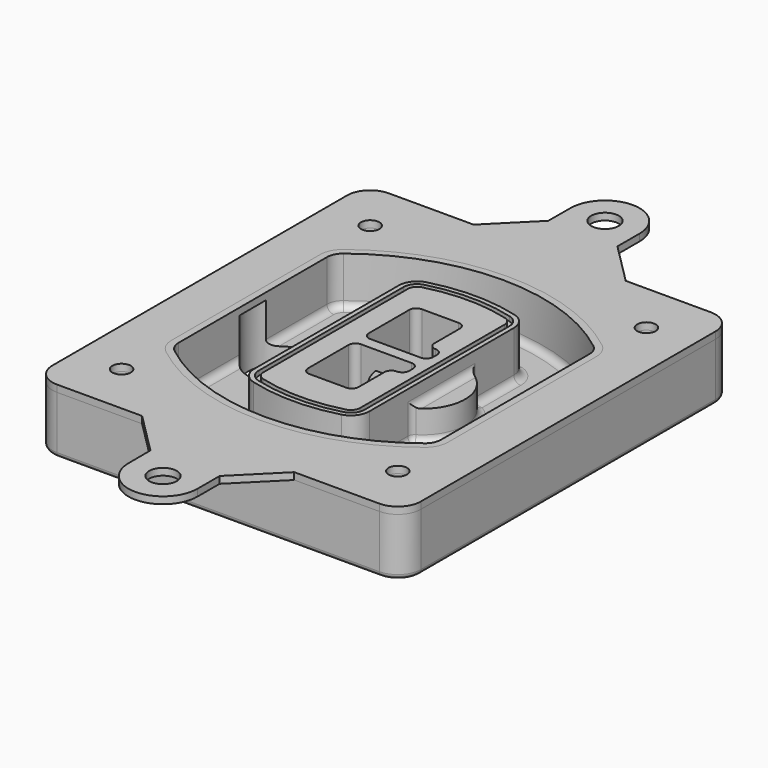
from build123d import *

# Parameters (mm, degrees)
F0_R      = 4
F1_DEPTH  = 25
F2_DEPTH  = 3
F3_DEPTH  = 18
F5_DEPTH  = 21
F6_DEPTH  = 2
F8_DEPTH  = 20
F9_DEPTH  = 16
F10_DEPTH = 25
F7_R      = 6
F7_R_2    = 4
F11_DEPTH = 6
F13_DEPTH = 9
F14_R     = 3
F15_R     = 2
F16_R     = 6
F16_R_2   = 4
F17_DEPTH = 3


with BuildPart() as f1:
    # F0 (on Top) → F1 (new body)
    with BuildSketch(Plane.XY):
        with BuildLine():
            ThreePointArc((-80, -80), (-77.0710678119, -87.0710678119), (-70, -90))
            Line((-70, -90), (70, -90))
            ThreePointArc((70, -90), (77.0710678119, -87.0710678119), (80, -80))
            Line((80, -80), (80, 80))
            ThreePointArc((80, 80), (77.0710678119, 87.0710678119), (70, 90))
            Line((70, 90), (-70, 90))
            ThreePointArc((-70, 90), (-77.0710678119, 87.0710678119), (-80, 80))
            Line((-80, 80), (-80, -80))
        make_face()
        with Locations((-60, -67.5)):
            Circle(F0_R, mode=Mode.SUBTRACT)
        with Locations((60, -67.5)):
            Circle(F0_R, mode=Mode.SUBTRACT)
        with Locations((-60, 67.5)):
            Circle(F0_R, mode=Mode.SUBTRACT)
        with BuildLine():
            ThreePointArc((-64, 40.2934422872), (-62.5820384798, 46.4328484224), (-58.6153846154, 51.3286200352))
            ThreePointArc((-58.6153846154, 51.3286200352), (0, 71.5), (58.6153846154, 51.3286200352))
            ThreePointArc((58.6153846154, 51.3286200352), (62.5820384798, 46.4328484224), (64, 40.2934422872))
            Line((64, 40.2934422872), (64, -40.2934422872))
            ThreePointArc((64, -40.2934422872), (62.5820384798, -46.4328484224), (58.6153846154, -51.3286200352))
            ThreePointArc((58.6153846154, -51.3286200352), (0, -71.5), (-58.6153846154, -51.3286200352))
            ThreePointArc((-58.6153846154, -51.3286200352), (-62.5820384798, -46.4328484224), (-64, -40.2934422872))
            Line((-64, -40.2934422872), (-64, 40.2934422872))
        make_face(mode=Mode.SUBTRACT)
        with Locations((60, 67.5)):
            Circle(F0_R, mode=Mode.SUBTRACT)
        with BuildLine():
            ThreePointArc((58.6153846154, 51.3286200352), (0, 71.5), (-58.6153846154, 51.3286200352))
            ThreePointArc((-58.6153846154, 51.3286200352), (-62.5820384798, 46.4328484224), (-64, 40.2934422872))
            Line((-64, 40.2934422872), (-64, -40.2934422872))
            ThreePointArc((-64, -40.2934422872), (-62.5820384798, -46.4328484224), (-58.6153846154, -51.3286200352))
            ThreePointArc((-58.6153846154, -51.3286200352), (0, -71.5), (58.6153846154, -51.3286200352))
            ThreePointArc((58.6153846154, -51.3286200352), (62.5820384798, -46.4328484224), (64, -40.2934422872))
            Line((64, -40.2934422872), (64, 40.2934422872))
            ThreePointArc((64, 40.2934422872), (62.5820384798, 46.4328484224), (58.6153846154, 51.3286200352))
        make_face()
        with BuildLine():
            Line((-60, -40.2934422872), (-60, 40.2934422872))
            ThreePointArc((-60, 40.2934422872), (-58.9871703427, 44.6787323838), (-56.1538461538, 48.1757121072))
            ThreePointArc((-56.1538461538, 48.1757121072), (0, 67.5), (56.1538461538, 48.1757121072))
            ThreePointArc((56.1538461538, 48.1757121072), (58.9871703427, 44.6787323838), (60, 40.2934422872))
            Line((60, 40.2934422872), (60, -40.2934422872))
            ThreePointArc((60, -40.2934422872), (58.9871703427, -44.6787323838), (56.1538461538, -48.1757121072))
            ThreePointArc((56.1538461538, -48.1757121072), (0, -67.5), (-56.1538461538, -48.1757121072))
            ThreePointArc((-56.1538461538, -48.1757121072), (-58.9871703427, -44.6787323838), (-60, -40.2934422872))
        make_face(mode=Mode.SUBTRACT)
        with BuildLine():
            ThreePointArc((-56.1538461538, 48.1757121072), (-58.9871703427, 44.6787323838), (-60, 40.2934422872))
            Line((-60, 40.2934422872), (-60, -40.2934422872))
            ThreePointArc((-60, -40.2934422872), (-58.9871703427, -44.6787323838), (-56.1538461538, -48.1757121072))
            ThreePointArc((-56.1538461538, -48.1757121072), (0, -67.5), (56.1538461538, -48.1757121072))
            ThreePointArc((56.1538461538, -48.1757121072), (58.9871703427, -44.6787323838), (60, -40.2934422872))
            Line((60, -40.2934422872), (60, 40.2934422872))
            ThreePointArc((60, 40.2934422872), (58.9871703427, 44.6787323838), (56.1538461538, 48.1757121072))
            ThreePointArc((56.1538461538, 48.1757121072), (0, 67.5), (-56.1538461538, 48.1757121072))
        make_face()
        with BuildLine():
            ThreePointArc((54.3076923077, 45.8110311612), (56.2910192399, 43.3631453548), (57, 40.2934422872))
            Line((57, 40.2934422872), (57, -40.2934422872))
            ThreePointArc((57, -40.2934422872), (56.2910192399, -43.3631453548), (54.3076923077, -45.8110311612))
            ThreePointArc((54.3076923077, -45.8110311612), (0, -64.5), (-54.3076923077, -45.8110311612))
            ThreePointArc((-54.3076923077, -45.8110311612), (-56.2910192399, -43.3631453548), (-57, -40.2934422872))
            Line((-57, -40.2934422872), (-57, 40.2934422872))
            ThreePointArc((-57, 40.2934422872), (-56.2910192399, 43.3631453548), (-54.3076923077, 45.8110311612))
            ThreePointArc((-54.3076923077, 45.8110311612), (0, 64.5), (54.3076923077, 45.8110311612))
        make_face(mode=Mode.SUBTRACT)
        with BuildLine():
            Line((57, -40.2934422872), (57, 40.2934422872))
            ThreePointArc((57, 40.2934422872), (56.2910192399, 43.3631453548), (54.3076923077, 45.8110311612))
            ThreePointArc((54.3076923077, 45.8110311612), (0, 64.5), (-54.3076923077, 45.8110311612))
            ThreePointArc((-54.3076923077, 45.8110311612), (-56.2910192399, 43.3631453548), (-57, 40.2934422872))
            Line((-57, 40.2934422872), (-57, -40.2934422872))
            ThreePointArc((-57, -40.2934422872), (-56.2910192399, -43.3631453548), (-54.3076923077, -45.8110311612))
            ThreePointArc((-54.3076923077, -45.8110311612), (0, -64.5), (54.3076923077, -45.8110311612))
            ThreePointArc((54.3076923077, -45.8110311612), (56.2910192399, -43.3631453548), (57, -40.2934422872))
        make_face()
    extrude(amount=-F1_DEPTH)

    # F0 (on Top) → F2 (join)
    with BuildSketch(Plane.XY):
        with BuildLine():
            ThreePointArc((-56.1538461538, 48.1757121072), (-58.9871703427, 44.6787323838), (-60, 40.2934422872))
            Line((-60, 40.2934422872), (-60, -40.2934422872))
            ThreePointArc((-60, -40.2934422872), (-58.9871703427, -44.6787323838), (-56.1538461538, -48.1757121072))
            ThreePointArc((-56.1538461538, -48.1757121072), (0, -67.5), (56.1538461538, -48.1757121072))
            ThreePointArc((56.1538461538, -48.1757121072), (58.9871703427, -44.6787323838), (60, -40.2934422872))
            Line((60, -40.2934422872), (60, 40.2934422872))
            ThreePointArc((60, 40.2934422872), (58.9871703427, 44.6787323838), (56.1538461538, 48.1757121072))
            ThreePointArc((56.1538461538, 48.1757121072), (0, 67.5), (-56.1538461538, 48.1757121072))
        make_face()
        with BuildLine():
            ThreePointArc((54.3076923077, 45.8110311612), (56.2910192399, 43.3631453548), (57, 40.2934422872))
            Line((57, 40.2934422872), (57, -40.2934422872))
            ThreePointArc((57, -40.2934422872), (56.2910192399, -43.3631453548), (54.3076923077, -45.8110311612))
            ThreePointArc((54.3076923077, -45.8110311612), (0, -64.5), (-54.3076923077, -45.8110311612))
            ThreePointArc((-54.3076923077, -45.8110311612), (-56.2910192399, -43.3631453548), (-57, -40.2934422872))
            Line((-57, -40.2934422872), (-57, 40.2934422872))
            ThreePointArc((-57, 40.2934422872), (-56.2910192399, 43.3631453548), (-54.3076923077, 45.8110311612))
            ThreePointArc((-54.3076923077, 45.8110311612), (0, 64.5), (54.3076923077, 45.8110311612))
        make_face(mode=Mode.SUBTRACT)
    extrude(amount=F2_DEPTH)

    # F0 (on Top) → F3 (cut)
    with BuildSketch(Plane.XY):
        with BuildLine():
            Line((57, -40.2934422872), (57, 40.2934422872))
            ThreePointArc((57, 40.2934422872), (56.2910192399, 43.3631453548), (54.3076923077, 45.8110311612))
            ThreePointArc((54.3076923077, 45.8110311612), (0, 64.5), (-54.3076923077, 45.8110311612))
            ThreePointArc((-54.3076923077, 45.8110311612), (-56.2910192399, 43.3631453548), (-57, 40.2934422872))
            Line((-57, 40.2934422872), (-57, -40.2934422872))
            ThreePointArc((-57, -40.2934422872), (-56.2910192399, -43.3631453548), (-54.3076923077, -45.8110311612))
            ThreePointArc((-54.3076923077, -45.8110311612), (0, -64.5), (54.3076923077, -45.8110311612))
            ThreePointArc((54.3076923077, -45.8110311612), (56.2910192399, -43.3631453548), (57, -40.2934422872))
        make_face()
    extrude(amount=-F3_DEPTH, mode=Mode.SUBTRACT)

    # F4 (on face) → F5 (join, through all)
    with BuildSketch(Plane.XY.offset(3)):
        with BuildLine():
            ThreePointArc((-25, -39.2465276821), (-23.3511545998, -44.1109737193), (-19.0842911877, -46.9702398883))
            ThreePointArc((-19.0842911877, -46.9702398883), (0, -49.5), (19.0842911877, -46.9702398883))
            ThreePointArc((19.0842911877, -46.9702398883), (23.3511545998, -44.1109737193), (25, -39.2465276821))
            Line((25, -39.2465276821), (25, 39.2465276821))
            ThreePointArc((25, 39.2465276821), (23.3511545998, 44.1109737193), (19.0842911877, 46.9702398883))
            ThreePointArc((19.0842911877, 46.9702398883), (0, 49.5), (-19.0842911877, 46.9702398883))
            ThreePointArc((-19.0842911877, 46.9702398883), (-23.3511545998, 44.1109737193), (-25, 39.2465276821))
            Line((-25, 39.2465276821), (-25, -39.2465276821))
        make_face()
        with BuildLine():
            ThreePointArc((18.5632183908, 45.0393118368), (21.7633659499, 42.89486221), (23, 39.2465276821))
            Line((23, 39.2465276821), (23, -39.2465276821))
            ThreePointArc((23, -39.2465276821), (21.7633659499, -42.89486221), (18.5632183908, -45.0393118368))
            ThreePointArc((18.5632183908, -45.0393118368), (0, -47.5), (-18.5632183908, -45.0393118368))
            ThreePointArc((-18.5632183908, -45.0393118368), (-21.7633659499, -42.89486221), (-23, -39.2465276821))
            Line((-23, -39.2465276821), (-23, 39.2465276821))
            ThreePointArc((-23, 39.2465276821), (-21.7633659499, 42.89486221), (-18.5632183908, 45.0393118368))
            ThreePointArc((-18.5632183908, 45.0393118368), (0, 47.5), (18.5632183908, 45.0393118368))
        make_face(mode=Mode.SUBTRACT)
        with BuildLine():
            Line((23, -39.2465276821), (23, 39.2465276821))
            ThreePointArc((23, 39.2465276821), (21.7633659499, 42.89486221), (18.5632183908, 45.0393118368))
            ThreePointArc((18.5632183908, 45.0393118368), (0, 47.5), (-18.5632183908, 45.0393118368))
            ThreePointArc((-18.5632183908, 45.0393118368), (-21.7633659499, 42.89486221), (-23, 39.2465276821))
            Line((-23, 39.2465276821), (-23, -39.2465276821))
            ThreePointArc((-23, -39.2465276821), (-21.7633659499, -42.89486221), (-18.5632183908, -45.0393118368))
            ThreePointArc((-18.5632183908, -45.0393118368), (0, -47.5), (18.5632183908, -45.0393118368))
            ThreePointArc((18.5632183908, -45.0393118368), (21.7633659499, -42.89486221), (23, -39.2465276821))
        make_face()
        with BuildLine():
            ThreePointArc((18.0421455939, 43.1083837852), (20.1755772999, 41.6787507007), (21, 39.2465276821))
            Line((21, 39.2465276821), (21, -39.2465276821))
            ThreePointArc((21, -39.2465276821), (20.1755772999, -41.6787507007), (18.0421455939, -43.1083837852))
            ThreePointArc((18.0421455939, -43.1083837852), (0, -45.5), (-18.0421455939, -43.1083837852))
            ThreePointArc((-18.0421455939, -43.1083837852), (-20.1755772999, -41.6787507007), (-21, -39.2465276821))
            Line((-21, -39.2465276821), (-21, 39.2465276821))
            ThreePointArc((-21, 39.2465276821), (-20.1755772999, 41.6787507007), (-18.0421455939, 43.1083837852))
            ThreePointArc((-18.0421455939, 43.1083837852), (0, 45.5), (18.0421455939, 43.1083837852))
        make_face(mode=Mode.SUBTRACT)
        with BuildLine():
            Line((21, -39.2465276821), (21, 39.2465276821))
            ThreePointArc((21, 39.2465276821), (20.1755772999, 41.6787507007), (18.0421455939, 43.1083837852))
            ThreePointArc((18.0421455939, 43.1083837852), (0, 45.5), (-18.0421455939, 43.1083837852))
            ThreePointArc((-18.0421455939, 43.1083837852), (-20.1755772999, 41.6787507007), (-21, 39.2465276821))
            Line((-21, 39.2465276821), (-21, -39.2465276821))
            ThreePointArc((-21, -39.2465276821), (-20.1755772999, -41.6787507007), (-18.0421455939, -43.1083837852))
            ThreePointArc((-18.0421455939, -43.1083837852), (0, -45.5), (18.0421455939, -43.1083837852))
            ThreePointArc((18.0421455939, -43.1083837852), (20.1755772999, -41.6787507007), (21, -39.2465276821))
        make_face()
        with BuildLine():
            Line((-8, -2.5), (14, -2.5))
            ThreePointArc((14, -2.5), (16.1213203436, -3.3786796564), (17, -5.5))
            Line((17, -5.5), (17, -7.5))
            ThreePointArc((17, -7.5), (16.1213203436, -9.6213203436), (14, -10.5))
            ThreePointArc((14, -10.5), (11.8786796564, -11.3786796564), (11, -13.5))
            Line((11, -13.5), (11, -27.5))
            ThreePointArc((11, -27.5), (10.1213203436, -29.6213203436), (8, -30.5))
            Line((8, -30.5), (-8, -30.5))
            ThreePointArc((-8, -30.5), (-10.1213203436, -29.6213203436), (-11, -27.5))
            Line((-11, -27.5), (-11, -5.5))
            ThreePointArc((-11, -5.5), (-10.1213203436, -3.3786796564), (-8, -2.5))
        make_face(mode=Mode.SUBTRACT)
        with BuildLine():
            ThreePointArc((-8, 2.5), (-10.1213203436, 3.3786796564), (-11, 5.5))
            Line((-11, 5.5), (-11, 27.5))
            ThreePointArc((-11, 27.5), (-10.1213203436, 29.6213203436), (-8, 30.5))
            Line((-8, 30.5), (8, 30.5))
            ThreePointArc((8, 30.5), (10.1213203436, 29.6213203436), (11, 27.5))
            Line((11, 27.5), (11, 13.5))
            ThreePointArc((11, 13.5), (11.8786796564, 11.3786796564), (14, 10.5))
            ThreePointArc((14, 10.5), (16.1213203436, 9.6213203436), (17, 7.5))
            Line((17, 7.5), (17, 5.5))
            ThreePointArc((17, 5.5), (16.1213203436, 3.3786796564), (14, 2.5))
            Line((14, 2.5), (-8, 2.5))
        make_face(mode=Mode.SUBTRACT)
    extrude(amount=-F5_DEPTH)

    # F4 (on face) → F6 (cut)
    with BuildSketch(Plane.XY.offset(3)):
        with BuildLine():
            Line((23, -39.2465276821), (23, 39.2465276821))
            ThreePointArc((23, 39.2465276821), (21.7633659499, 42.89486221), (18.5632183908, 45.0393118368))
            ThreePointArc((18.5632183908, 45.0393118368), (0, 47.5), (-18.5632183908, 45.0393118368))
            ThreePointArc((-18.5632183908, 45.0393118368), (-21.7633659499, 42.89486221), (-23, 39.2465276821))
            Line((-23, 39.2465276821), (-23, -39.2465276821))
            ThreePointArc((-23, -39.2465276821), (-21.7633659499, -42.89486221), (-18.5632183908, -45.0393118368))
            ThreePointArc((-18.5632183908, -45.0393118368), (0, -47.5), (18.5632183908, -45.0393118368))
            ThreePointArc((18.5632183908, -45.0393118368), (21.7633659499, -42.89486221), (23, -39.2465276821))
        make_face()
        with BuildLine():
            ThreePointArc((18.0421455939, 43.1083837852), (20.1755772999, 41.6787507007), (21, 39.2465276821))
            Line((21, 39.2465276821), (21, -39.2465276821))
            ThreePointArc((21, -39.2465276821), (20.1755772999, -41.6787507007), (18.0421455939, -43.1083837852))
            ThreePointArc((18.0421455939, -43.1083837852), (0, -45.5), (-18.0421455939, -43.1083837852))
            ThreePointArc((-18.0421455939, -43.1083837852), (-20.1755772999, -41.6787507007), (-21, -39.2465276821))
            Line((-21, -39.2465276821), (-21, 39.2465276821))
            ThreePointArc((-21, 39.2465276821), (-20.1755772999, 41.6787507007), (-18.0421455939, 43.1083837852))
            ThreePointArc((-18.0421455939, 43.1083837852), (0, 45.5), (18.0421455939, 43.1083837852))
        make_face(mode=Mode.SUBTRACT)
    extrude(amount=-F6_DEPTH, mode=Mode.SUBTRACT)

    # F7 (on face) → F8 (join)
    with BuildSketch(Plane(origin=(0, 0, -25), x_dir=(1, 0, 0), z_dir=(0, 0, -1))):
        with BuildLine():
            ThreePointArc((3.28842436, 0), (16.7567035675, 13.4682792075), (30.224982775, 0))
            Line((30.224982775, 0), (35.224982775, 0))
            ThreePointArc((35.224982775, 0), (16.7567035675, 18.4682792075), (-1.71157564, 0))
            Line((-1.71157564, 0), (3.28842436, 0))
        make_face()
        with BuildLine():
            Line((3.28842436, 0), (30.224982775, 0))
            ThreePointArc((30.224982775, 0), (16.7567035675, 13.4682792075), (3.28842436, 0))
        make_face()
        with BuildLine():
            ThreePointArc((3.28842436, 0), (16.7567035675, -13.4682792075), (30.224982775, 0))
            Line((30.224982775, 0), (3.28842436, 0))
        make_face()
        with BuildLine():
            Line((35.224982775, 0), (30.224982775, 0))
            ThreePointArc((30.224982775, 0), (16.7567035675, -13.4682792075), (3.28842436, 0))
            Line((3.28842436, 0), (-1.71157564, 0))
            ThreePointArc((-1.71157564, 0), (16.7567035675, -18.4682792075), (35.224982775, 0))
        make_face()
    extrude(amount=-F8_DEPTH)

    # F7 (on face) → F9 (cut)
    with BuildSketch(Plane(origin=(0, 0, -25), x_dir=(1, 0, 0), z_dir=(0, 0, -1))):
        with BuildLine():
            Line((3.28842436, 0), (30.224982775, 0))
            ThreePointArc((30.224982775, 0), (16.7567035675, 13.4682792075), (3.28842436, 0))
        make_face()
        with BuildLine():
            ThreePointArc((3.28842436, 0), (16.7567035675, -13.4682792075), (30.224982775, 0))
            Line((30.224982775, 0), (3.28842436, 0))
        make_face()
    extrude(amount=-F9_DEPTH, mode=Mode.SUBTRACT)

    # F7 (on face) → F10 (cut)
    with BuildSketch(Plane(origin=(0, 0, -25), x_dir=(1, 0, 0), z_dir=(0, 0, -1))):
        with BuildLine():
            Line((-59.0318229325, 0), (-32.0952645175, 0))
            ThreePointArc((-32.0952645175, 0), (-45.563543725, 13.4682792075), (-59.0318229325, 0))
        make_face()
        with BuildLine():
            ThreePointArc((-59.0318229325, 0), (-45.563543725, -13.4682792075), (-32.0952645175, 0))
            Line((-32.0952645175, 0), (-59.0318229325, 0))
        make_face()
    extrude(amount=-F10_DEPTH, mode=Mode.SUBTRACT)

    # F7 (on face) → F11 (cut)
    with BuildSketch(Plane(origin=(0, 0, -25), x_dir=(1, 0, 0), z_dir=(0, 0, -1))):
        with Locations((60, -67.5)):
            Circle(F7_R)
        with Locations((60, -67.5)):
            Circle(F7_R_2, mode=Mode.SUBTRACT)
        with Locations((60, -67.5)):
            Circle(F7_R)
        with Locations((60, -67.5)):
            Circle(F7_R_2, mode=Mode.SUBTRACT)
        with Locations((-60, -67.5)):
            Circle(F7_R)
        with Locations((-60, -67.5)):
            Circle(F7_R_2, mode=Mode.SUBTRACT)
        with Locations((-60, -67.5)):
            Circle(F7_R)
        with Locations((-60, -67.5)):
            Circle(F7_R_2, mode=Mode.SUBTRACT)
        with Locations((-60, 67.5)):
            Circle(F7_R)
        with Locations((-60, 67.5)):
            Circle(F7_R_2, mode=Mode.SUBTRACT)
        with Locations((-60, 67.5)):
            Circle(F7_R)
        with Locations((-60, 67.5)):
            Circle(F7_R_2, mode=Mode.SUBTRACT)
        with Locations((60, 67.5)):
            Circle(F7_R)
        with Locations((60, 67.5)):
            Circle(F7_R_2, mode=Mode.SUBTRACT)
        with Locations((60, 67.5)):
            Circle(F7_R)
        with Locations((60, 67.5)):
            Circle(F7_R_2, mode=Mode.SUBTRACT)
    extrude(amount=-F11_DEPTH, mode=Mode.SUBTRACT)

    # F12 (on face) → F13 (cut, through all)
    with BuildSketch(Plane(origin=(0, 0, -9), x_dir=(1, 0, 0), z_dir=(0, 0, -1))):
        with BuildLine():
            Line((11, 13.5), (11, 17.5481537753))
            ThreePointArc((11, 17.5481537753), (2.5696536419, 11.8239143813), (-1.5415842455, 2.5))
            Line((-1.5415842455, 2.5), (3.5224848595, 2.5))
            ThreePointArc((3.5224848595, 2.5), (6.1857188154, 8.3455872281), (11.2536447004, 12.2927168648))
            ThreePointArc((11.2536447004, 12.2927168648), (11.0640958889, 12.8831798879), (11, 13.5))
        make_face()
        with BuildLine():
            ThreePointArc((11.2536447004, -12.2927168648), (6.1857188154, -8.3455872281), (3.5224848595, -2.5))
            Line((3.5224848595, -2.5), (-1.5415842455, -2.5))
            ThreePointArc((-1.5415842455, -2.5), (2.5696536419, -11.8239143813), (11, -17.5481537753))
            Line((11, -17.5481537753), (11, -13.5))
            ThreePointArc((11, -13.5), (11.0640958889, -12.8831798879), (11.2536447004, -12.2927168648))
        make_face()
        with BuildLine():
            ThreePointArc((11.2536447004, 12.2927168648), (6.1857188154, 8.3455872281), (3.5224848595, 2.5))
            Line((3.5224848595, 2.5), (14, 2.5))
            ThreePointArc((14, 2.5), (16.1213203436, 3.3786796564), (17, 5.5))
            Line((17, 5.5), (17, 7.5))
            ThreePointArc((17, 7.5), (16.1213203436, 9.6213203436), (14, 10.5))
            ThreePointArc((14, 10.5), (12.3601599782, 10.9878446101), (11.2536447004, 12.2927168648))
        make_face()
        with BuildLine():
            Line((14, -2.5), (3.5224848595, -2.5))
            ThreePointArc((3.5224848595, -2.5), (6.1857188154, -8.3455872281), (11.2536447004, -12.2927168648))
            ThreePointArc((11.2536447004, -12.2927168648), (12.3601599782, -10.9878446101), (14, -10.5))
            ThreePointArc((14, -10.5), (16.1213203436, -9.6213203436), (17, -7.5))
            Line((17, -7.5), (17, -5.5))
            ThreePointArc((17, -5.5), (16.1213203436, -3.3786796564), (14, -2.5))
        make_face()
    extrude(amount=F13_DEPTH, mode=Mode.SUBTRACT)

    # F14
    f14_edges = [f1.edges().sort_by_distance(p)[0] for p in [
        (-57, -23.703476, -18),
        (-57, 23.703476, -18),
        (25, 0, -5),
        (25, 16.526506, -11.5),
        (25, -16.526506, -11.5),
        (25, -27.886517, -18),
        (35.224983, 0, -18),
    ]]
    fillet(f14_edges, radius=F14_R)

    # F15
    f15_edges = [f1.edges().sort_by_distance(p)[0] for p in [
        (0, -90, -25),
    ]]
    fillet(f15_edges, radius=F15_R)


with BuildPart() as f17:
    # F16 (on face) → F17 (new body, through all)
    with BuildSketch(Plane.XY):
        with BuildLine():
            Line((-15.0678204373, 108), (-33.0678204373, 90))
            Line((-33.0678204373, 90), (33, 90))
            Line((33, 90), (15, 108))
            Line((15, 108), (15, 120))
            ThreePointArc((15, 120), (0, 135), (-15, 120))
            Line((-15, 120), (-15.0678204373, 108))
        make_face()
        with Locations((0, 120)):
            Circle(F16_R, mode=Mode.SUBTRACT)
        with BuildLine():
            Line((33, 90), (-33.0678204373, 90))
            Line((-33.0678204373, 90), (-70, 90))
            ThreePointArc((-70, 90), (-77.0710678119, 87.0710678119), (-80, 80))
            Line((-80, 80), (-80, -80))
            ThreePointArc((-80, -80), (-77.0710678119, -87.0710678119), (-70, -90))
            Line((-70, -90), (-33.0678204373, -90))
            Line((-33.0678204373, -90), (33, -90))
            Line((33, -90), (70, -90))
            ThreePointArc((70, -90), (77.0710678119, -87.0710678119), (80, -80))
            Line((80, -80), (80, 80))
            ThreePointArc((80, 80), (77.0710678119, 87.0710678119), (70, 90))
            Line((70, 90), (33, 90))
        make_face()
        with Locations((-60, -67.5)):
            Circle(F16_R_2, mode=Mode.SUBTRACT)
        with Locations((60, -67.5)):
            Circle(F16_R_2, mode=Mode.SUBTRACT)
        with Locations((-60, 67.5)):
            Circle(F16_R_2, mode=Mode.SUBTRACT)
        with BuildLine():
            ThreePointArc((-60, 40.2934422872), (-58.9871703427, 44.6787323838), (-56.1538461538, 48.1757121072))
            ThreePointArc((-56.1538461538, 48.1757121072), (0, 67.5), (56.1538461538, 48.1757121072))
            ThreePointArc((56.1538461538, 48.1757121072), (58.9871703427, 44.6787323838), (60, 40.2934422872))
            Line((60, 40.2934422872), (60, -40.2934422872))
            ThreePointArc((60, -40.2934422872), (58.9871703427, -44.6787323838), (56.1538461538, -48.1757121072))
            ThreePointArc((56.1538461538, -48.1757121072), (0, -67.5), (-56.1538461538, -48.1757121072))
            ThreePointArc((-56.1538461538, -48.1757121072), (-58.9871703427, -44.6787323838), (-60, -40.2934422872))
            Line((-60, -40.2934422872), (-60, 40.2934422872))
        make_face(mode=Mode.SUBTRACT)
        with Locations((60, 67.5)):
            Circle(F16_R_2, mode=Mode.SUBTRACT)
        with BuildLine():
            Line((33, -90), (-33.0678204373, -90))
            Line((-33.0678204373, -90), (-15.0678204373, -108))
            Line((-15.0678204373, -108), (-15, -120))
            ThreePointArc((-15, -120), (0, -135), (15, -120))
            Line((15, -120), (15, -108))
            Line((15, -108), (33, -90))
        make_face()
        with Locations((0, -120)):
            Circle(F16_R, mode=Mode.SUBTRACT)
    extrude(amount=F17_DEPTH)


solid = Compound([f1.part, f17.part])
